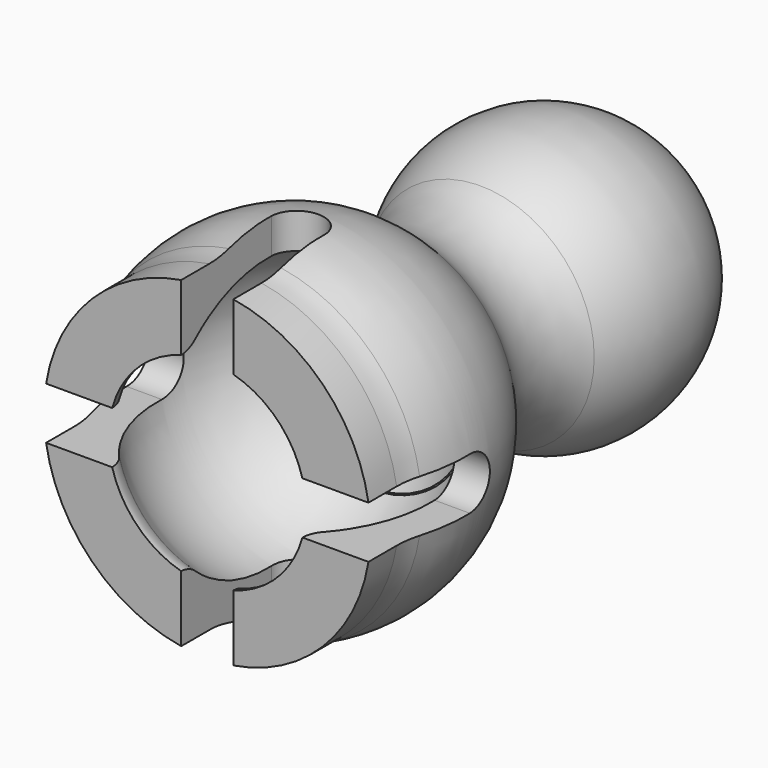
from build123d import *

# Parameters (mm, degrees)
F3_DEPTH = 12.5
F5_DEPTH = 12.5
F6_R     = 4
F7_DEPTH = 29.864501
F8_SIZE  = 1.6


with BuildPart() as f1:
    # F0 (on Top) → F1 (revolve)
    with BuildSketch(Plane.XY):
        with BuildLine():
            ThreePointArc((7.104936, -10.962963), (5.675639, -7.871082), (6.558402, -4.581197))
            ThreePointArc((6.558402, -4.581197), (7.970318, 0.6885), (5.675636, 5.63801))
            Line((5.675636, 5.63801), (0, 5.63801))
            Line((0, 5.63801), (0, -10))
            Line((0, -10), (0, -12.361993))
            Line((0, -12.361993), (5.675639, -12.361993))
            ThreePointArc((5.675639, -12.361993), (7.993021, -17.665911), (6.12633, -23.144713))
            ThreePointArc((6.12633, -23.144713), (6.080527, -23.198768), (6.034246, -23.252416))
            ThreePointArc((6.034246, -23.252416), (5.778346, -23.710725), (5.675639, -24.225491))
            Line((5.675639, -24.225491), (7.825808, -24.225491))
            Line((7.825808, -24.225491), (9.398941, -24.225491))
            Line((9.398941, -24.225491), (9.398941, -22.197944))
            ThreePointArc((9.398941, -22.197944), (9.449175, -21.490968), (9.598867, -20.798198))
            ThreePointArc((9.598867, -20.798198), (9.691944, -15.540784), (7.104936, -10.962963))
        make_face()
        with BuildLine():
            ThreePointArc((6.034246, -23.252416), (6.080527, -23.198768), (6.12633, -23.144713))
            ThreePointArc((6.12633, -23.144713), (6.079157, -23.197598), (6.034246, -23.252416))
        make_face()
    revolve(axis=Axis((0, -20.180997, 0), (0, -1, 0)))

    # F2 (on Top) → F3 (cut, symmetric)
    with BuildSketch(Plane.XY):
        with BuildLine():
            Line((-1.5, -17.725491), (-1.5, -24.225491))
            Line((-1.5, -24.225491), (1.5, -24.225491))
            Line((1.5, -24.225491), (1.5, -17.725491))
            ThreePointArc((1.5, -17.725491), (0, -16.225491), (-1.5, -17.725491))
        make_face()
    extrude(amount=F3_DEPTH, both=True, mode=Mode.SUBTRACT)

    # F4 (on Right) → F5 (cut, symmetric)
    with BuildSketch(Plane.YZ):
        with BuildLine():
            Line((-17.682245, 1.5), (-25.682245, 1.5))
            Line((-25.682245, 1.5), (-25.682245, -1.5))
            Line((-25.682245, -1.5), (-17.682245, -1.5))
            ThreePointArc((-17.682245, -1.5), (-16.182245, 0), (-17.682245, 1.5))
        make_face()
    extrude(amount=F5_DEPTH, both=True, mode=Mode.SUBTRACT)

    # F6 (on face) → F7 (cut, through all)
    with BuildSketch(Plane(origin=(0, 5.63801, 0), x_dir=(-1, 0, 0), z_dir=(0, 1, 0))):
        Circle(F6_R)
    extrude(amount=-F7_DEPTH, mode=Mode.SUBTRACT)

    # F8
    f8_edges = [f1.edges().sort_by_distance(p)[0] for p in [
        (4, -12.361993, 0),
    ]]
    chamfer(f8_edges, length=F8_SIZE)


solid = f1.part
